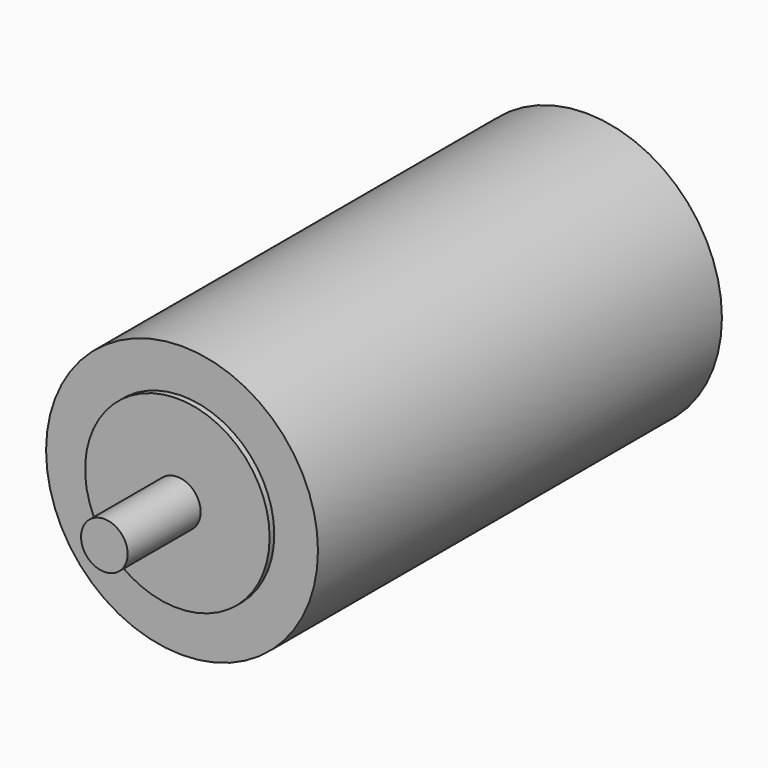
from build123d import *

# Parameters (mm, degrees)
F0_R     = 12
F1_DEPTH = 50
F0_R_2   = 47.5
F2_DEPTH = 3
F0_R_3   = 70
F3_DEPTH = 260


with BuildPart() as f1:
    # F0 (on Front) → F1 (new body)
    with BuildSketch(Plane.XZ):
        Circle(F0_R)
    extrude(amount=F1_DEPTH)

    # F0 (on Front) → F2 (join)
    with BuildSketch(Plane.XZ):
        Circle(F0_R_2)
        Circle(F0_R, mode=Mode.SUBTRACT)
    extrude(amount=F2_DEPTH)

    # F0 (on Front) → F3 (join)
    with BuildSketch(Plane.XZ):
        Circle(F0_R_3)
        Circle(F0_R_2, mode=Mode.SUBTRACT)
        Circle(F0_R_2)
        Circle(F0_R, mode=Mode.SUBTRACT)
        Circle(F0_R)
    extrude(amount=-F3_DEPTH)


solid = f1.part
